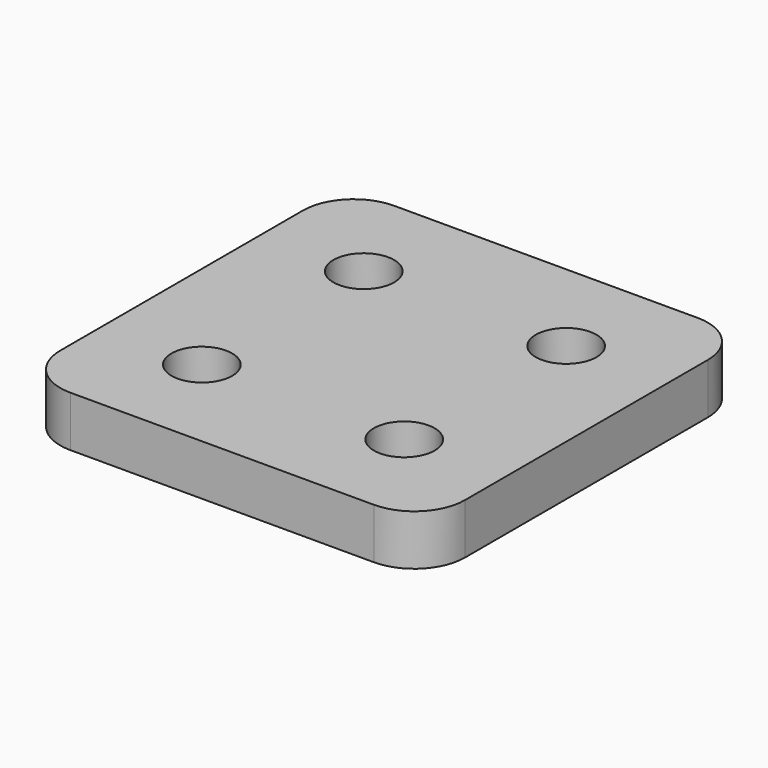
from build123d import *

# Parameters (mm, degrees)
SKETCH_W     = 80
SKETCH_H     = 80
PAD_DEPTH    = 10
SKETCH001_R  = 6
POCKET_DEPTH = 10.001
FILLET_R     = 10


with BuildPart() as part:
    # Sketch → Pad (new body)
    with BuildSketch(Plane.XY):
        Rectangle(SKETCH_W, SKETCH_H)
    extrude(amount=PAD_DEPTH)

    # Sketch001 (on Face6 of Pad) → Pocket (cut, through all)
    with BuildSketch(Plane.XY.offset(10)):
        with Locations((-20, 20)):
            Circle(SKETCH001_R)
        with Locations((20, 20)):
            Circle(SKETCH001_R)
        with Locations((20, -20)):
            Circle(SKETCH001_R)
        with Locations((-20, -20)):
            Circle(SKETCH001_R)
    extrude(amount=-POCKET_DEPTH, mode=Mode.SUBTRACT)

    # Fillet
    fillet_edges = [part.edges().sort_by_distance(p)[0] for p in [
        (-40, -40, 5),
        (40, -40, 5),
        (40, 40, 5),
        (-40, 40, 5),
    ]]
    fillet(fillet_edges, radius=FILLET_R)


solid = part.part
